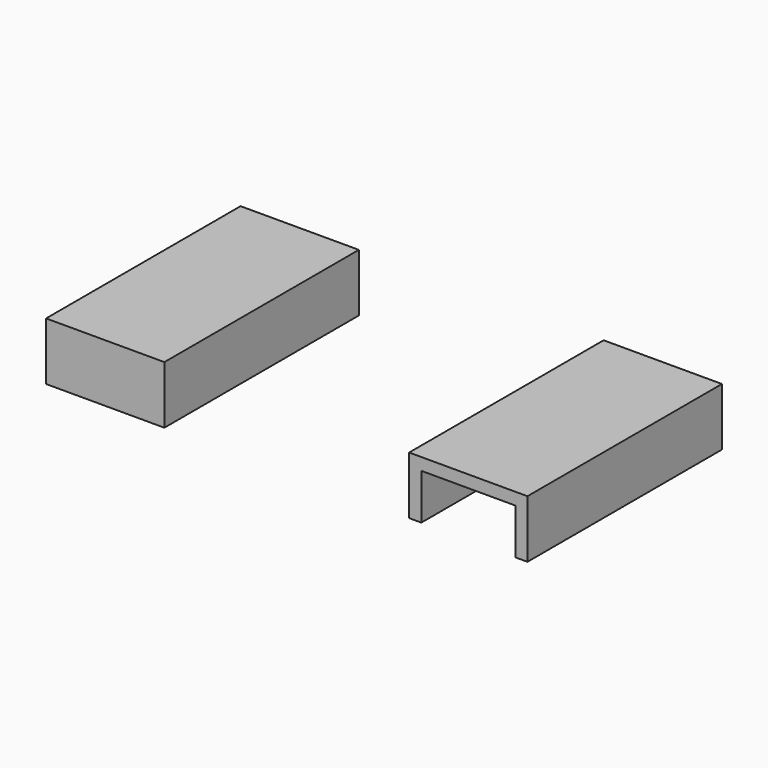
from build123d import *

# Parameters (mm, degrees)
F0_W     = 37.0812825859
F0_H     = 18.1127805263
F1_DEPTH = 76.2
F0_W_2   = 37.0812863111
F2_DEPTH = 76.2
F3_W     = 29.4612825859
F3_H     = 14.3027805263
F4_DEPTH = 152.4


with BuildPart() as f1:
    # F0 (on Front) → F1 (new body)
    with BuildSketch(Plane.XZ):
        with Locations((56.1924073845, 9.0563902631)):
            Rectangle(F0_W, F0_H)
    extrude(amount=F1_DEPTH)


with BuildPart() as f1b:
    # F0 (on Front) → F1, piece 2 (new body)
    with BuildSketch(Plane.XZ):
        with Locations((-57.6186105609, 9.0563902631)):
            Rectangle(F0_W_2, F0_H)
    extrude(amount=F1_DEPTH)


with BuildPart() as f2:
    # F0 (on Front) → F2 (new body)
    with BuildSketch(Plane.XZ):
        with Locations((56.1924073845, 9.0563902631)):
            Rectangle(F0_W, F0_H)
    extrude(amount=-F2_DEPTH)


with BuildPart() as f2b:
    # F0 (on Front) → F2, piece 2 (new body)
    with BuildSketch(Plane.XZ):
        with Locations((-57.6186105609, 9.0563902631)):
            Rectangle(F0_W_2, F0_H)
    extrude(amount=-F2_DEPTH)


with BuildPart() as f4_tool:
    # F3 (on face) + F0 (on Front) → F4 (new body)
    with BuildSketch(Plane(origin=(0, 76.2, 0), x_dir=(-1, 0, 0), z_dir=(0, 1, 0))):
        with Locations((-56.1924073845, 7.1513902631)):
            Rectangle(F3_W, F3_H)
    with BuildSketch(Plane.XZ):
        with Locations((-57.6186105609, 9.0563902631)):
            Rectangle(F0_W_2, F0_H)
        with Locations((56.1924073845, 9.0563902631)):
            Rectangle(F0_W, F0_H)
    extrude(amount=-F4_DEPTH, dir=(0, 1, 0))


with BuildPart() as f1_1:
    add(f1.part)

    # F4: cut by f4_tool
    add(f4_tool.part, mode=Mode.SUBTRACT)


with BuildPart() as f1b_1:
    add(f1b.part)

    # F4: cut by f4_tool
    add(f4_tool.part, mode=Mode.SUBTRACT)


with BuildPart() as f2_1:
    add(f2.part)

    # F4: cut by f4_tool
    add(f4_tool.part, mode=Mode.SUBTRACT)


solid = Compound([f2b.part, f2_1.part])
